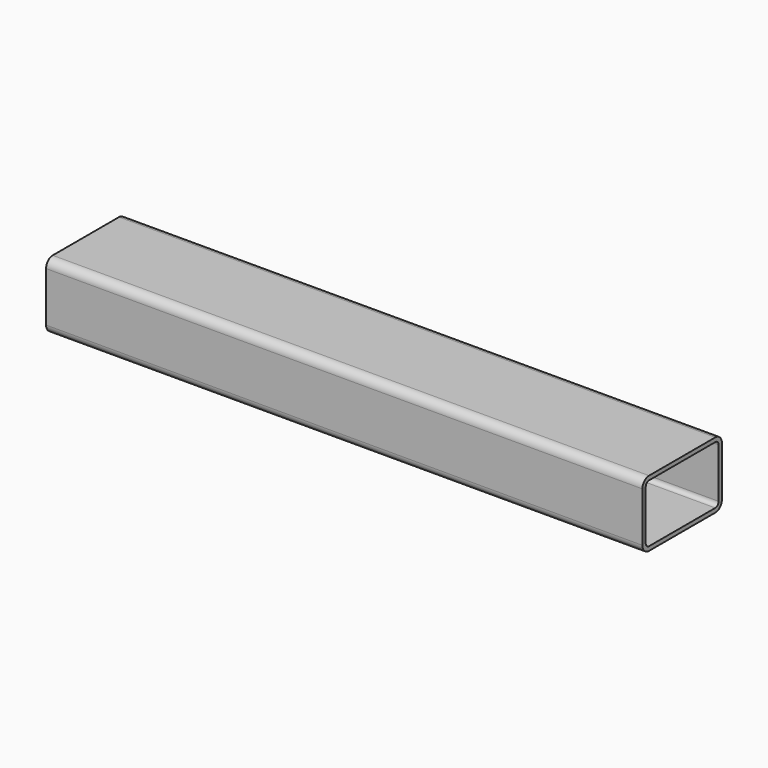
from build123d import *

# Parameters (mm, degrees)
F1_DEPTH = 914.4
F3_DEPTH = 914.401


with BuildPart() as f1:
    # F0 (on Right) → F1 (new body)
    with BuildSketch(Plane.YZ):
        with BuildLine():
            ThreePointArc((-81.199146, 28.461858), (-77.479402, 19.481602), (-68.499146, 15.761858))
            Line((-68.499146, 15.761858), (58.500854, 15.761858))
            ThreePointArc((58.500854, 15.761858), (67.48111, 19.481602), (71.200854, 28.461858))
            Line((71.200854, 28.461858), (71.200854, 104.661858))
            ThreePointArc((71.200854, 104.661858), (67.48111, 113.642114), (58.500854, 117.361858))
            Line((58.500854, 117.361858), (-68.499146, 117.361858))
            ThreePointArc((-68.499146, 117.361858), (-77.479402, 113.642114), (-81.199146, 104.661858))
            Line((-81.199146, 104.661858), (-81.199146, 28.461858))
        make_face()
    extrude(amount=-F1_DEPTH)

    # F2 (on face) → F3 (cut, through all)
    with BuildSketch(Plane.YZ):
        with BuildLine():
            ThreePointArc((-74.849146, 28.461858), (-72.989274, 23.97173), (-68.499146, 22.111858))
            Line((-68.499146, 22.111858), (58.500854, 22.111858))
            ThreePointArc((58.500854, 22.111858), (62.990982, 23.97173), (64.850854, 28.461858))
            Line((64.850854, 28.461858), (64.850854, 104.661858))
            ThreePointArc((64.850854, 104.661858), (62.990982, 109.151986), (58.500854, 111.011858))
            Line((58.500854, 111.011858), (-68.499146, 111.011858))
            ThreePointArc((-68.499146, 111.011858), (-72.989274, 109.151986), (-74.849146, 104.661858))
            Line((-74.849146, 104.661858), (-74.849146, 28.461858))
        make_face()
    extrude(amount=-F3_DEPTH, mode=Mode.SUBTRACT)


solid = f1.part
